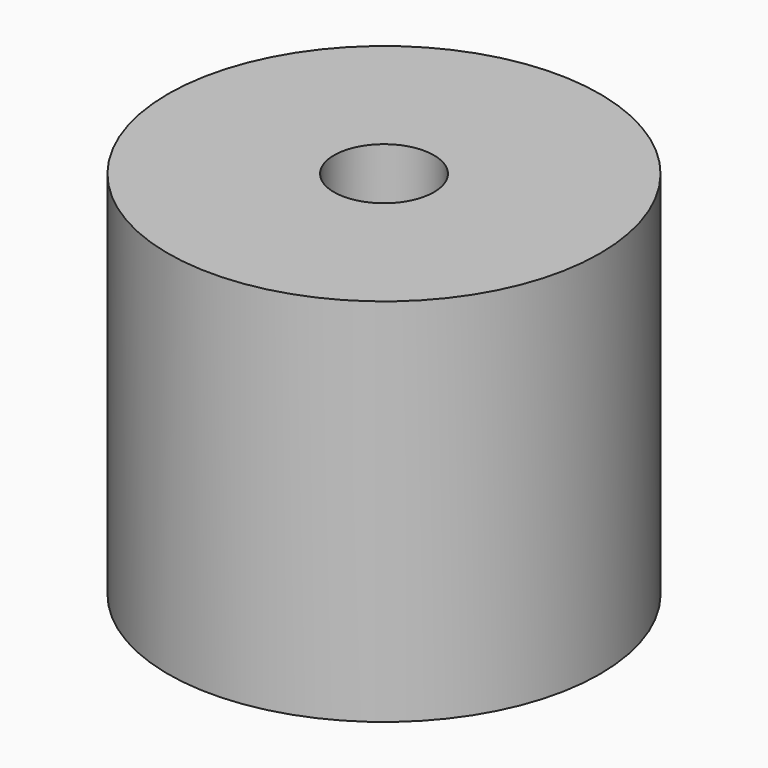
from build123d import *

# Parameters (mm, degrees)
CYLINDER159_R     = 0.405
CYLINDER159_DEPTH = 17
CYLINDER149_R     = 1.75
CYLINDER149_DEPTH = 3


with BuildPart() as obj1:
    # Cylinder159 → Cylinder159 (new body)
    with BuildSketch(Plane.XY):
        Circle(CYLINDER159_R)
    extrude(amount=CYLINDER159_DEPTH)


with BuildPart() as cut020:
    # Cylinder149 → Cylinder149 (new body)
    with BuildSketch(Plane.XY.offset(2.7)):
        Circle(CYLINDER149_R)
    extrude(amount=CYLINDER149_DEPTH)

    # Cut020: cut obj1
    add(obj1.part, mode=Mode.SUBTRACT)


solid = cut020.part
